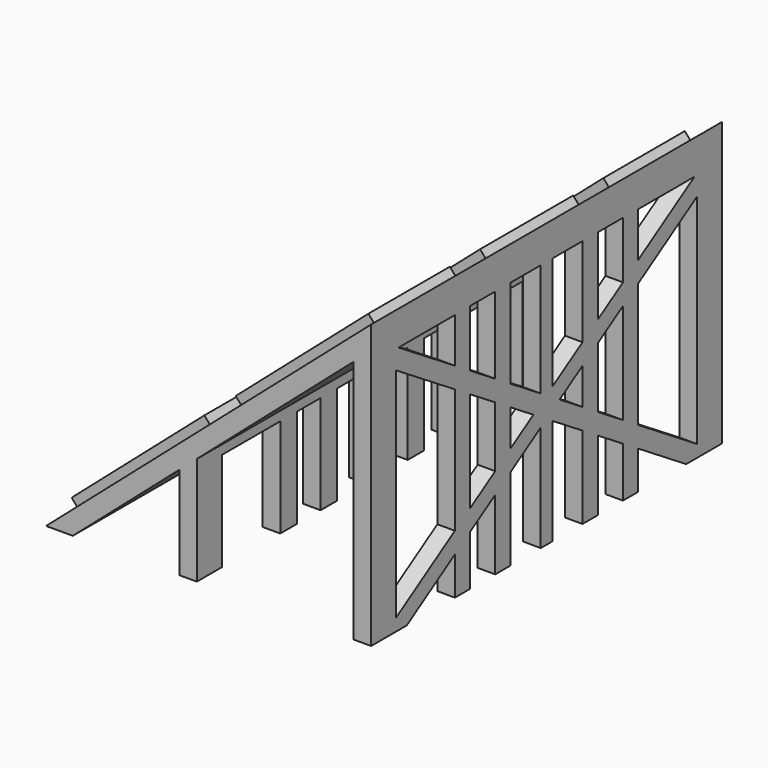
from build123d import *

# Parameters (mm, degrees)
F1_DEPTH = 127
F3_DEPTH = 5.842
F5_W     = 21.162301302
F5_H     = 28.62467058
F5_W_2   = 8.4839835763
F5_W_3   = 10.6764808297
F5_W_4   = 10.2951750159
F5_W_5   = 9.0689621866
F5_W_6   = 20.9719697013
F6_DEPTH = 6.604
F7_W     = 50.9557463229
F7_H     = 29.4899502769
F8_DEPTH = 2.54


with BuildPart() as f1:
    # F0 (on Front) → F1 (new body)
    with BuildSketch(Plane.XZ):
        Polygon((46.8764491379, 81.9781199098), (-47.2529642284, 0), (-39.5179688628, 0), (-8.6630821907, 26.8717875629), (-8.6630821907, 0), (-3.5830821907, 0), (-3.5830821907, 31.2960034828), (41.7964491379, 70.817429652), (41.7964491379, 0), (46.8764491379, 0), align=None)
    extrude(amount=F1_DEPTH)

    # F2 (on face) → F3 (cut)
    with BuildSketch(Plane.YZ.offset(46.8764491379)):
        Polygon((-50.4709516168, 40.3369802166), (-58.757108451, 35.0823956511), (-50.4709516168, 29.8278110855), align=None)
        Polygon((-35.8090658188, 49.6346703711), (-44.928032577, 43.8519676127), (-44.928032577, 26.3128236894), (-35.8090658188, 20.530120931), align=None)
        Polygon((-30.3332541585, 17.0576890172), (-8.9731920958, 3.5124165006), (-8.9731920958, 66.6523748015), (-30.3332541585, 53.107102285), align=None)
        Polygon((-30.3332541585, 0), (-12.9201102982, 0), (-30.3332541585, 11.0423732976), align=None)
        Polygon((-44.928032577, 0), (-35.8090658188, 0), (-35.8090658188, 14.5148052115), (-44.928032577, 20.2975079699), align=None)
        Polygon((-61.4131574035, 30.7513871575), (-61.4131574035, 0), (-50.4709516168, 0), (-50.4709516168, 23.812495366), align=None)
        Polygon((-76.5290483832, 23.812495366), (-76.5290483832, 0), (-65.5868425965, 0), (-65.5868425965, 30.7513871575), align=None)
        Polygon((-91.1909341812, 14.5148052115), (-91.1909341812, 0), (-82.071967423, 0), (-82.071967423, 20.2975079699), align=None)
        Polygon((-96.6667458415, 11.0423732976), (-114.0798897018, 0), (-96.6667458415, 0), align=None)
        Polygon((-118.0268079042, 66.6523748015), (-118.0268079042, 3.5124165006), (-96.6667458415, 17.0576890172), (-96.6667458415, 53.107102285), align=None)
        Polygon((-82.071967423, 43.8519676127), (-91.1909341812, 49.6346703711), (-91.1909341812, 20.530120931), (-82.071967423, 26.3128236894), align=None)
        Polygon((-68.242891549, 35.0823956511), (-76.5290483832, 40.3369802166), (-76.5290483832, 29.8278110855), align=None)
        Polygon((-65.5868425965, 39.4134041447), (-65.5868425965, 72.1255466342), (-76.5290483832, 72.1255466342), (-76.5290483832, 46.3522959362), align=None)
        Polygon((-96.6667458415, 72.0583349466), (-117.0658916235, 72.0583349466), (-96.6667458415, 59.1224180045), align=None)
        Polygon((-82.071967423, 72.1255466342), (-91.1909341812, 72.1255466342), (-91.1909341812, 55.6499860907), (-82.071967423, 49.8672833323), align=None)
        Polygon((-50.4709516168, 72.1255466342), (-61.4131574035, 72.1255466342), (-61.4131574035, 39.4134041447), (-50.4709516168, 46.3522959362), align=None)
        Polygon((-35.8090658188, 72.1255466342), (-44.928032577, 72.1255466342), (-44.928032577, 49.8672833323), (-35.8090658188, 55.6499860907), align=None)
        Polygon((-30.3332541585, 59.1224180045), (-9.9341083765, 72.0583349466), (-30.3332541585, 72.0583349466), align=None)
    extrude(amount=-F3_DEPTH, mode=Mode.SUBTRACT)

    # F5 (on face) → F6 (cut)
    with BuildSketch(Plane.YZ.offset(-3.5830821907)):
        with Locations((-107.3864251375, 14.31233529)):
            Rectangle(F5_W, F5_H)
        with Locations((-86.4624343812, 14.31233529)):
            Rectangle(F5_W_2, F5_H)
        with Locations((-70.972006768, 14.31233529)):
            Rectangle(F5_W_3, F5_H)
        with Locations((-55.8152236044, 14.31233529)):
            Rectangle(F5_W_4, F5_H)
        with Locations((-40.2838084847, 14.31233529)):
            Rectangle(F5_W_5, F5_H)
        with Locations((-19.5952425711, 14.31233529)):
            Rectangle(F5_W_6, F5_H)
    extrude(amount=-F6_DEPTH, mode=Mode.SUBTRACT)

    # F7 (on face) → F8 (join)
    with BuildSketch(Plane(origin=(-20.3815104704, 0, 23.4025813987), x_dir=(0.7541036669, 0, 0.6567554032), z_dir=(-0.6567554032, 0, 0.7541036669))):
        with Locations((58.2807790488, -20.9741364233)):
            Rectangle(F7_W, F7_H)
        Polygon((83.7586522102, -63.5), (83.7586522102, -46.6593503952), (32.8029058874, -46.6593503952), (32.8029058874, -63.5), (32.8029058874, -80.3406496048), (83.7586522102, -80.3406496048), align=None)
        with Locations((58.2807790488, -106.0258635767)):
            Rectangle(F7_W, F7_H)
        with Locations((-4.7251372654, -106.0258635767)):
            Rectangle(F7_W, F7_H)
        Polygon((-30.2030104268, -46.6593503952), (-30.2030104268, -63.5), (-30.2030104268, -80.3406496048), (20.752735896, -80.3406496048), (20.752735896, -63.5), (20.752735896, -46.6593503952), align=None)
        with Locations((-4.7251372654, -20.9741364233)):
            Rectangle(F7_W, F7_H)
    extrude(amount=F8_DEPTH)


solid = f1.part
